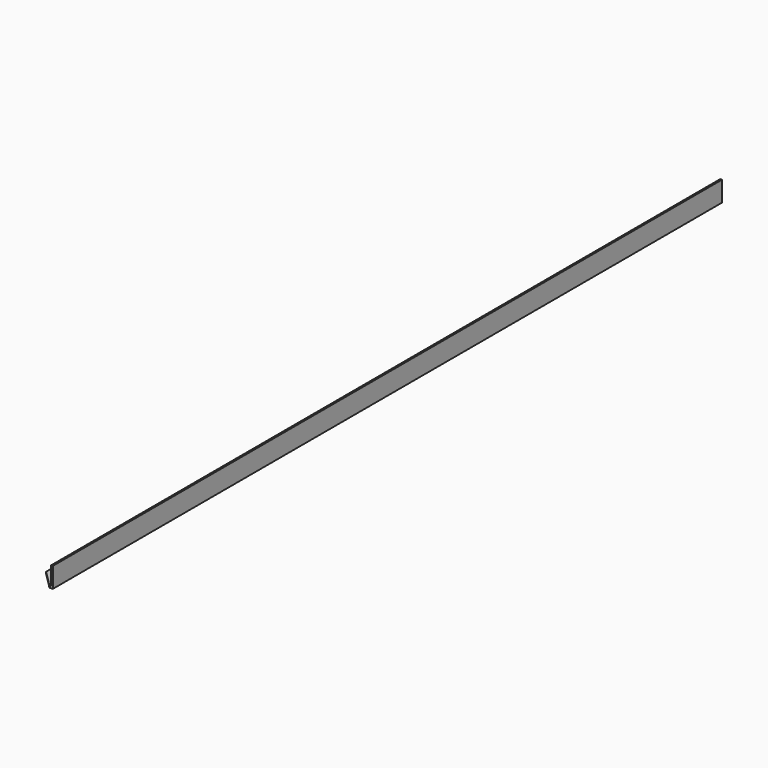
from build123d import *

# Parameters (mm, degrees)
F1_DEPTH = 1574.8
F3_DEPTH = 3.176
F5_D     = 8.2042


with BuildPart() as f1:
    # F0 (on Front) → F1 (new body)
    with BuildSketch(Plane.XZ):
        Polygon((0, 3.175), (0, 0), (38.1, 0), (38.1, 38.1), (34.925, 38.1), (34.925, 3.175), align=None)
    extrude(amount=F1_DEPTH)

    # F2 (on face) → F3 (cut, through all)
    with BuildSketch(Plane.XY.offset(3.175)):
        Polygon((0, -1574.8), (31.75, -1574.8), (0, -1543.05), align=None)
        Polygon((0, 0), (0, -31.75), (31.75, 0), align=None)
    extrude(amount=-F3_DEPTH, mode=Mode.SUBTRACT)

    # F5 (through all)
    with Locations(Plane.XY.offset(3.175)):
        with Locations((15.875, -1540.9644877579), (15.875, -77.9752877579)):
            Hole(F5_D / 2)


solid = f1.part
